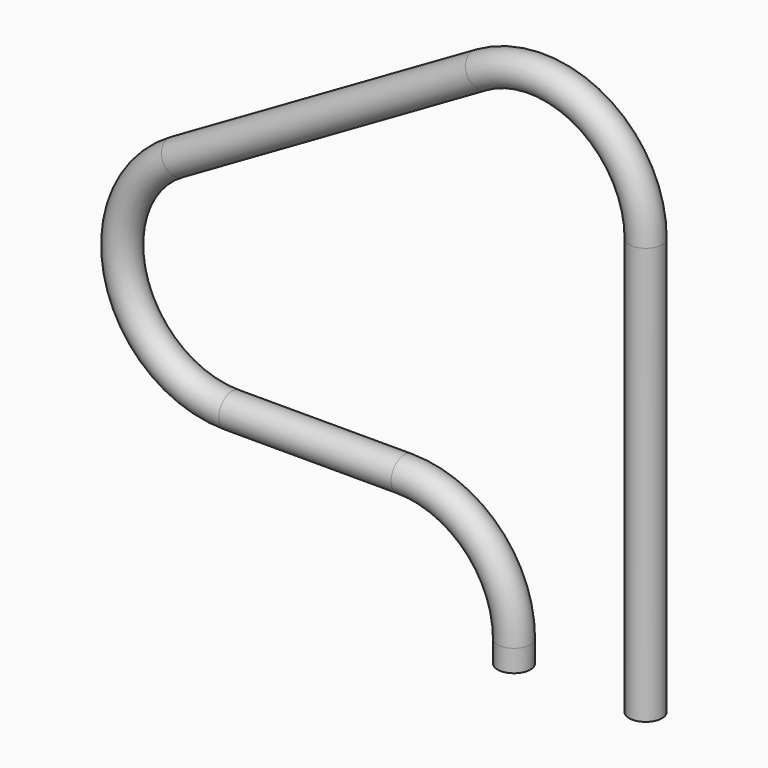
from build123d import *

# Parameters (mm, degrees)
F2_R = 38.1


with BuildPart() as f3:
    # F3: sweep along a path in F0
    with BuildLine(Plane.XZ) as f3_path:
        Line((0, 0), (0, 965.2))
        ThreePointArc((0, 965.2), (-127, 1185.1704525612), (-381, 1185.1704525612))
        Line((-381, 1185.1704525612), (-1084.905448196, 778.7704525612))
        ThreePointArc((-1084.905448196, 778.7704525612), (-1203.2506080734, 493.059962544), (-957.905448196, 304.8))
        Line((-957.905448196, 304.8), (-558.8, 304.8))
        ThreePointArc((-558.8, 304.8), (-379.1948775786, 230.4051224214), (-304.8, 50.8))
        Line((-304.8, 50.8), (-304.8, 0))
    # F2 (on line) → F3 (sweep)
    with BuildSketch(Plane.XY):
        Circle(F2_R)
    sweep(path=f3_path.line)


solid = f3.part
